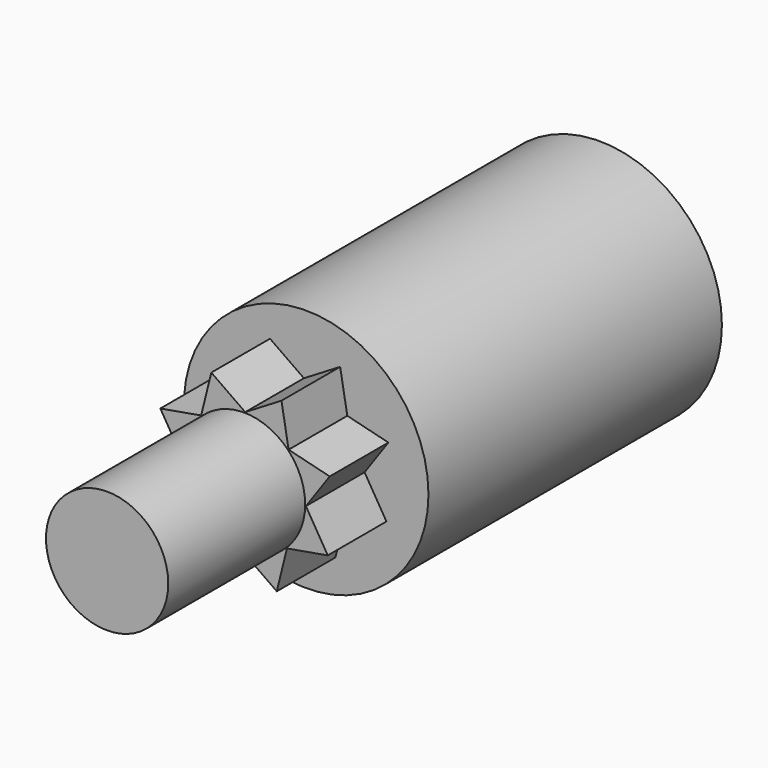
from build123d import *

# Parameters (mm, degrees)
F0_R     = 12.7
F1_DEPTH = 38.1
F2_R     = 6.35
F3_DEPTH = 25.4
F4_R     = 6.35
F5_DEPTH = 7.62


with BuildPart() as f1:
    # F0 (on Front) → F1 (new body)
    with BuildSketch(Plane.XZ):
        with Locations((0.359142, 0)):
            Circle(F0_R)
    extrude(amount=F1_DEPTH)

    # F2 (on face) → F3 (join)
    with BuildSketch(Plane.XZ.offset(38.1)):
        Circle(F2_R)
    extrude(amount=F3_DEPTH)

    # F4 (on face) → F5 (join)
    with BuildSketch(Plane.XZ.offset(38.1)):
        Circle(F4_R)
        Polygon((-4.455793, 4.628796), (-8.695096, 3.888565), (-6.423775, 0.122331), (-8.897992, -3.39873), (-4.628796, -4.455793), (-3.888565, -8.695096), (-0.122331, -6.423775), (3.39873, -8.897992), (4.455793, -4.628796), (8.695096, -3.888565), (6.423775, -0.122331), (8.897992, 3.39873), (4.628796, 4.455793), (3.888565, 8.695096), (0.122331, 6.423775), (-3.39873, 8.897992), align=None)
        Circle(F4_R, mode=Mode.SUBTRACT)
    extrude(amount=F5_DEPTH)


solid = f1.part
